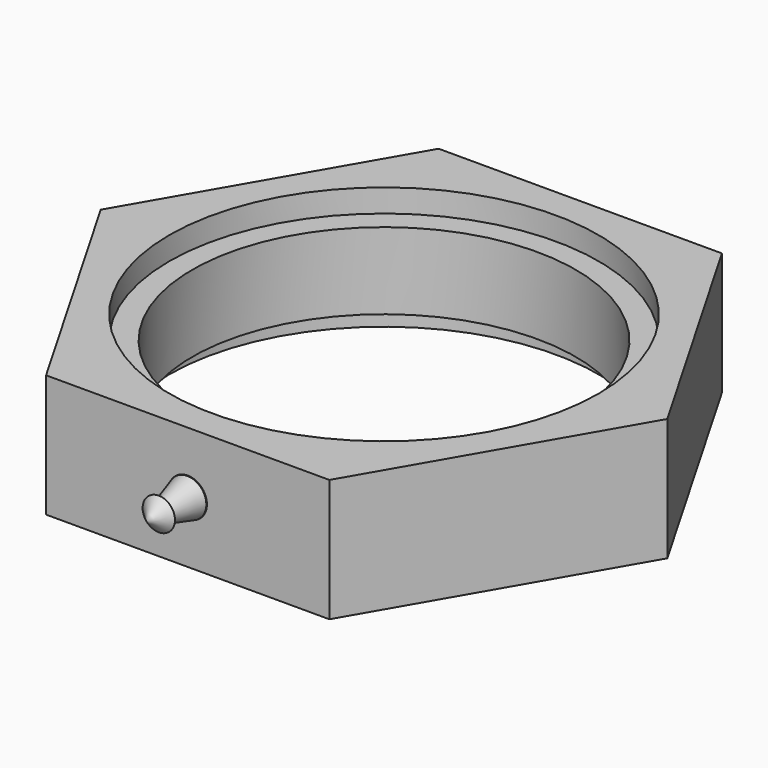
from build123d import *

# Parameters (mm, degrees)
F0_R     = 39.6875
F1_DEPTH = 12.7
F2_R     = 44.45
F2_R_2   = 39.6875
F3_DEPTH = 4.7625
F4_R     = 44.45
F4_R_2   = 39.6875
F5_DEPTH = 4.7625
F6_R     = 3.9751
F7_DEPTH = 11.3130749046


with BuildPart() as f1:
    # F0 (on Top) → F1 (new body, symmetric)
    with BuildSketch(Plane.XY):
        Polygon((29.3293936748, 50.8), (-29.3293936748, 50.8), (-58.6587873497, 0), (-29.3293936748, -50.8), (29.3293936748, -50.8), (58.6587873497, 0), align=None)
        Circle(F0_R, mode=Mode.SUBTRACT)
    extrude(amount=F1_DEPTH, both=True)

    # F2 (on face) → F3 (cut)
    with BuildSketch(Plane.XY.offset(12.7)):
        Circle(F2_R)
        Circle(F2_R_2, mode=Mode.SUBTRACT)
    extrude(amount=-F3_DEPTH, mode=Mode.SUBTRACT)

    # F4 (on face) → F5 (cut)
    with BuildSketch(Plane(origin=(0, 0, -12.7), x_dir=(1, 0, 0), z_dir=(0, 0, -1))):
        Circle(F4_R)
        Circle(F4_R_2, mode=Mode.SUBTRACT)
    extrude(amount=-F5_DEPTH, mode=Mode.SUBTRACT)

    # F6 (on face) → F7 (cut, through all)
    with BuildSketch(Plane.XZ.offset(50.8)):
        Circle(F6_R)
    extrude(amount=-F7_DEPTH, mode=Mode.SUBTRACT)


with BuildPart() as f9:
    # F8 (on Top) → F9 (revolve)
    with BuildSketch(Plane.XY):
        Polygon((0, -50.1139573753), (-3.9363633841, -50.9049855173), (-1.9664389547, -57.8975602984), (-3.3482198015, -58.2868309078), (0, -61.4389628172), align=None)
    revolve(axis=Axis((0, -55.7764600962, 0), (0, 1, 0)))


solid = Compound([f1.part, f9.part])
